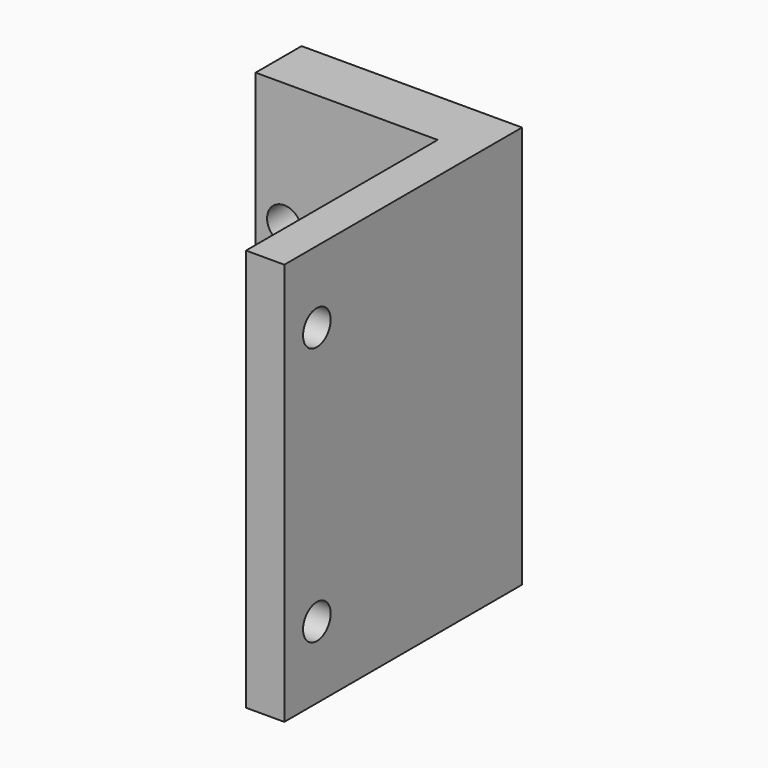
from build123d import *

# Parameters (mm, degrees)
PAD_DEPTH       = 42
SKETCH001_R     = 1.8
POCKET_DEPTH    = 6
SKETCH002_R     = 1.8
POCKET001_DEPTH = 4


with BuildPart() as part:
    # Sketch → Pad (new body)
    with BuildSketch(Plane.XY):
        Polygon((-21, 31), (2, 31), (2, 0), (-2, 0), (-2, 25), (-21, 25), align=None)
    extrude(amount=PAD_DEPTH)

    # Sketch001 → Pocket (cut)
    with BuildSketch(Plane(origin=(0, 31, 0), x_dir=(-1, 0, 0), z_dir=(0, 1, 0))):
        with Locations((6, 29)):
            Circle(SKETCH001_R)
        with Locations((18, 29)):
            Circle(SKETCH001_R)
        with Locations((6, 13)):
            Circle(SKETCH001_R)
        with Locations((18, 13)):
            Circle(SKETCH001_R)
    extrude(amount=-POCKET_DEPTH, mode=Mode.SUBTRACT)

    # Sketch002 → Pocket001 (cut)
    with BuildSketch(Plane(origin=(-2, 0, 0), x_dir=(0, -1, 0), z_dir=(-1, 0, 0))):
        with Locations((-4.241278, 34.5)):
            Circle(SKETCH002_R)
        with Locations((-4.241278, 7.5)):
            Circle(SKETCH002_R)
    extrude(amount=-POCKET001_DEPTH, mode=Mode.SUBTRACT)


solid = part.part
